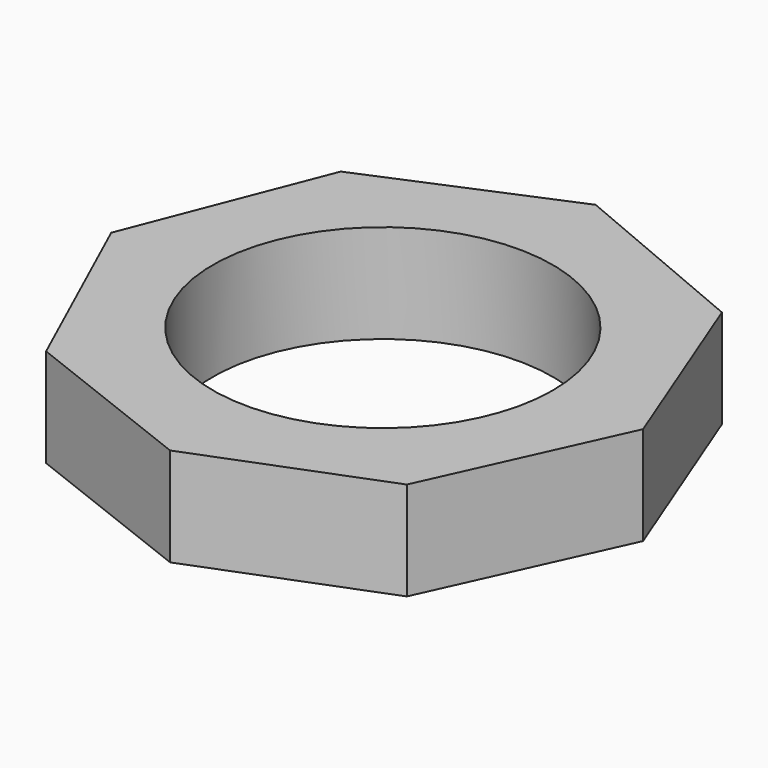
from build123d import *

# Parameters (mm, degrees)
F0_R     = 27
F1_DEPTH = 10
F2_R     = 17.25
F3_DEPTH = 25
F5_DEPTH = 25


with BuildPart() as f1:
    # F0 (on Top) → F1 (new body)
    with BuildSketch(Plane.XY):
        Circle(F0_R)
    extrude(amount=F1_DEPTH)

    # F2 (on face) → F3 (cut)
    with BuildSketch(Plane.XY.offset(10)):
        Circle(F2_R)
    extrude(amount=-F3_DEPTH, mode=Mode.SUBTRACT)

    # F4 (on face) → F5 (cut)
    with BuildSketch(Plane.XY.offset(10)):
        with BuildLine():
            Line((-26.9902284894, -0.7263374486), (-19.3469779437, 18.8333333333))
            ThreePointArc((-19.3469779437, 18.8333333333), (-25.1481481481, 9.8270364159), (-26.9902284894, -0.7263374486))
        make_face()
        with BuildLine():
            Line((-19.3469779437, 18.8333333333), (0, 27))
            ThreePointArc((0, 27), (-10.5, 24.8746859277), (-19.3469779437, 18.8333333333))
        make_face()
        with BuildLine():
            ThreePointArc((19.3469779437, 18.8333333333), (10.5, 24.8746859277), (0, 27))
            Line((0, 27), (19.3469779437, 18.8333333333))
        make_face()
        with BuildLine():
            ThreePointArc((27, 0), (25.0136803018, 10.1644378969), (19.3469779437, 18.8333333333))
            Line((19.3469779437, 18.8333333333), (26.9902284894, -0.7263374486))
            ThreePointArc((26.9902284894, -0.7263374486), (26.9975570118, -0.3632015871), (27, 0))
        make_face()
        with BuildLine():
            ThreePointArc((18.3060568625, -19.8466189097), (24.5832190215, -11.1653635203), (26.9902284894, -0.7263374486))
            Line((26.9902284894, -0.7263374486), (18.3060568625, -19.8466189097))
        make_face()
        with BuildLine():
            ThreePointArc((0, -27), (9.8270364159, -25.1481481481), (18.3060568625, -19.8466189097))
            Line((18.3060568625, -19.8466189097), (0, -27))
        make_face()
        with BuildLine():
            Line((0, -27), (-18.3060568625, -19.8466189097))
            ThreePointArc((-18.3060568625, -19.8466189097), (-9.8270364159, -25.1481481481), (0, -27))
        make_face()
        with BuildLine():
            Line((-18.3060568625, -19.8466189097), (-26.9902284894, -0.7263374486))
            ThreePointArc((-26.9902284894, -0.7263374486), (-24.5832190215, -11.1653635203), (-18.3060568625, -19.8466189097))
        make_face()
    extrude(amount=-F5_DEPTH, mode=Mode.SUBTRACT)


solid = f1.part
